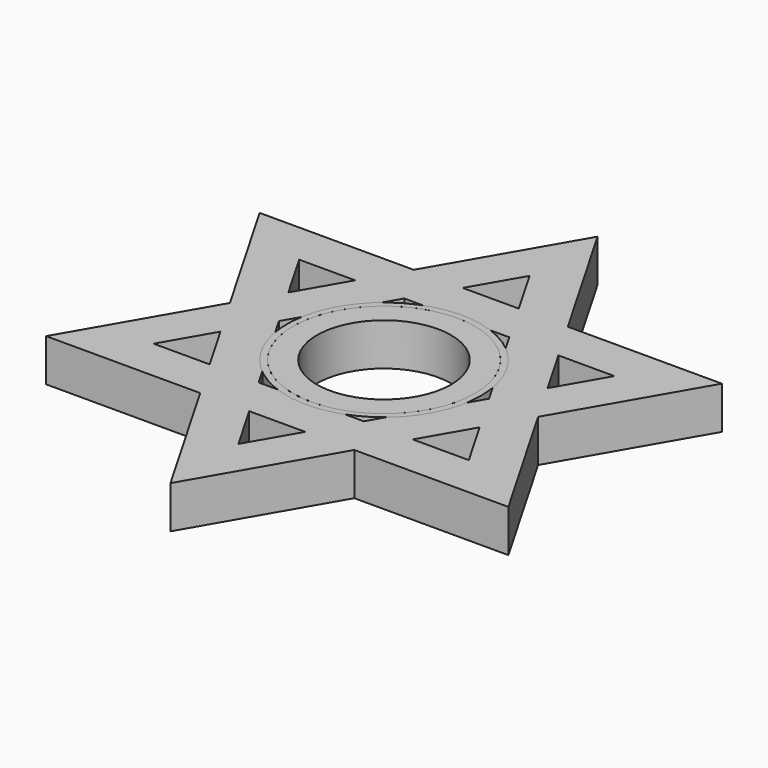
from build123d import *

# Parameters (mm, degrees)
F1_DEPTH = 7
F2_R     = 16
F2_R_2   = 15
F3_DEPTH = 7
F2_R_3   = 11.05
F4_DEPTH = 7.001


with BuildPart() as f1:
    # F0 (on Top) → F1 (new body)
    with BuildSketch(Plane.XY):
        Polygon((-25.9807621135, 15), (-16.7431578065, 15), (-12.7017059222, 22), (-38.1051177665, 22), (-25.4034118443, 0), (-21.36195996, 7), align=None)
        Polygon((-12.7017059222, -22), (-16.7431578065, -15), (-25.9807621135, -15), (-21.36195996, -7), (-25.4034118443, 0), (-38.1051177665, -22), align=None)
        Polygon((12.7017059222, -22), (4.6188021535, -22), (0, -30), (-4.6188021535, -22), (-12.7017059222, -22), (0, -44), align=None)
        Polygon((-16.7431578065, 15), (-8.6602540378, 15), (-4.6188021535, 22), (-12.7017059222, 22), align=None)
        Polygon((-8.6602540378, 15), (0, 15), (8.6602540378, 15), (4.6188021535, 22), (-4.6188021535, 22), align=None)
        Polygon((4.6188021535, 22), (8.6602540378, 15), (16.7431578065, 15), (12.7017059222, 22), align=None)
        Polygon((12.7017059222, 22), (16.7431578065, 15), (25.9807621135, 15), (21.36195996, 7), (25.4034118443, 0), (38.1051177665, 22), align=None)
        Polygon((21.36195996, 7), (17.3205080757, 0), (21.36195996, -7), (25.4034118443, 0), align=None)
        Polygon((25.4034118443, 0), (21.36195996, -7), (25.9807621135, -15), (16.7431578065, -15), (12.7017059222, -22), (38.1051177665, -22), align=None)
        Polygon((16.7431578065, -15), (8.6602540378, -15), (4.6188021535, -22), (12.7017059222, -22), align=None)
        Polygon((17.3205080757, 0), (12.9903808859, -7.5000002959), (8.6602540378, -15), (16.7431578065, -15), (21.36195996, -7), align=None)
        Polygon((-4.6188021535, -22), (-8.6602540378, -15), (-16.7431578065, -15), (-12.7017059222, -22), align=None)
        Polygon((-8.6602540378, -15), (-12.9903810881, -7.4999999457), (-17.3205080757, 0), (-21.36195996, -7), (-16.7431578065, -15), align=None)
        Polygon((-21.36195996, -7), (-17.3205080757, 0), (-21.36195996, 7), (-25.4034118443, 0), align=None)
        Polygon((-17.3205080757, 0), (-12.9903809452, 7.5000001932), (-8.6602540378, 15), (-16.7431578065, 15), (-21.36195996, 7), align=None)
        Polygon((8.6602540378, 15), (12.990381039, 7.5000000307), (17.3205080757, 0), (21.36195996, 7), (16.7431578065, 15), align=None)
        Polygon((0, 30), (4.6188021535, 22), (12.7017059222, 22), (0, 44), (-12.7017059222, 22), (-4.6188021535, 22), align=None)
        Polygon((8.6602540378, -15), (3.27e-08, -15), (-8.6602540378, -15), (-4.6188021535, -22), (4.6188021535, -22), align=None)
    extrude(amount=F1_DEPTH)


with BuildPart() as f1b:
    # F0 (on Top) → F1, piece 2 (new body)
    with BuildSketch(Plane.XY):
        with BuildLine():
            ThreePointArc((12.9903808859, -7.5000002959), (14.4888873501, -3.8822858416), (15, 0))
            ThreePointArc((15, 0), (14.4888873897, 3.8822856937), (12.990381039, 7.5000000307))
            ThreePointArc((12.990381039, 7.5000000307), (7.4999999846, 12.9903810656), (0, 15))
            ThreePointArc((0, 15), (-7.4999999034, 12.9903811125), (-12.9903809452, 7.5000001932))
            ThreePointArc((-12.9903809452, 7.5000001932), (-15, 1.429e-07), (-12.9903810881, -7.4999999457))
            ThreePointArc((-12.9903810881, -7.4999999457), (-7.500000013, -12.9903810493), (3.27e-08, -15))
            ThreePointArc((3.27e-08, -15), (7.4999998662, -12.990381134), (12.9903808859, -7.5000002959))
        make_face()
    extrude(amount=F1_DEPTH)

    # F2 (on face) → F4 (cut, through all)
    with BuildSketch(Plane.XY.offset(7)):
        Circle(F2_R_3)
    extrude(amount=-F4_DEPTH, mode=Mode.SUBTRACT)


with BuildPart() as f3:
    # F2 (on face) → F3 (new body)
    with BuildSketch(Plane.XY.offset(7)):
        Circle(F2_R)
        Circle(F2_R_2, mode=Mode.SUBTRACT)
    extrude(amount=-F3_DEPTH)


solid = Compound([f1.part, f1b.part, f3.part])
